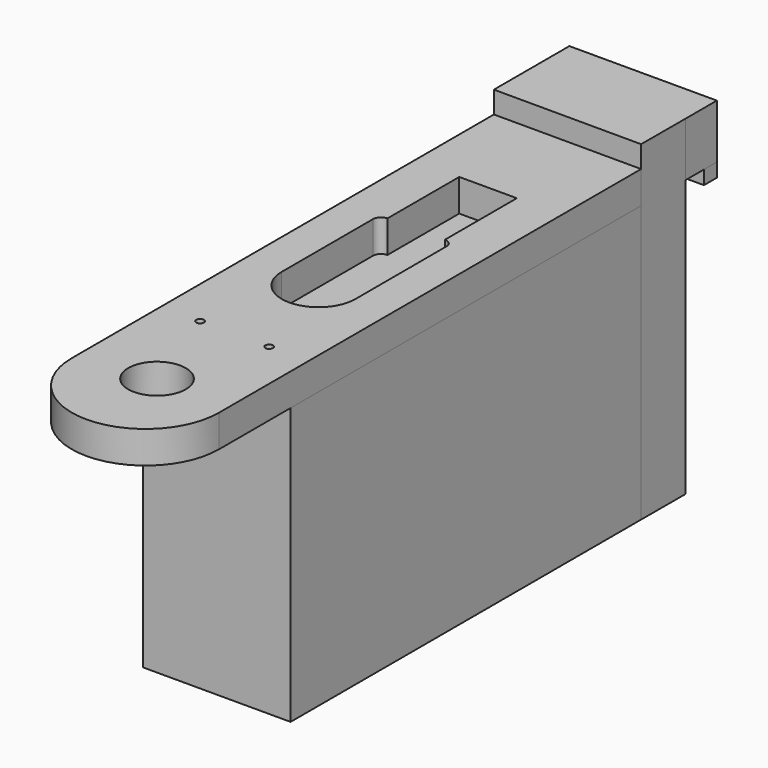
from build123d import *

# Parameters (mm, degrees)
F0_R     = 0.4191
F0_R_2   = 3.175
F1_DEPTH = 3.556
F0_W     = 16.2684546465
F0_H     = 2.54
F0_H_2   = 1.778
F2_DEPTH = 5.969
F3_DEPTH = 1.524
F4_DEPTH = 30.48


with BuildPart() as f1:
    # F0 (on Top) → F1 (new body)
    with BuildSketch(Plane.XY):
        Polygon((-8.1289618026, 19.5699129487), (-8.1289618026, -28.7827895308), (8.1284994147, -28.7827895308), (8.1284994147, 19.5406646823), align=None)
        with Locations((-3.8069129527, -26.3434465483)):
            Circle(F0_R, mode=Mode.SUBTRACT)
        with Locations((3.8130870473, -26.3434465483)):
            Circle(F0_R, mode=Mode.SUBTRACT)
        with BuildLine():
            ThreePointArc((4.0638460346, -14.7540253319), (0.0030865228, -18.8226827446), (-4.0641509764, -14.7605010551))
            Line((-4.0641509764, -14.7605010551), (-4.069773258, -2.185850306))
            ThreePointArc((-4.069773258, -2.185850306), (-3.8099907741, -1.5581196008), (-3.1823557791, -1.2981059663))
            Line((-3.1823557791, -1.2981059663), (-3.1823557791, 8.6078940337))
            Line((-3.1823557791, 8.6078940337), (3.1676447176, 8.6078940337))
            Line((3.1676447176, 8.6078940337), (3.1676447176, -1.2981059659))
            ThreePointArc((3.1676447176, -1.2981059659), (3.7912426345, -1.5606685465), (4.0494391018, -2.1860868505))
            Line((4.0494391018, -2.1860868505), (4.0638460346, -14.7540253319))
        make_face(mode=Mode.SUBTRACT)
        with BuildLine():
            Line((-8.1289618026, -28.7827895308), (-8.1275002277, -38.637912922))
            ThreePointArc((-8.1275002501, -38.637912922), (0.0011022648, -46.764707356), (8.1284994371, -38.6367074901))
            Line((8.1284994147, -38.6367074901), (8.1284994147, -28.7827895308))
            Line((8.1284994147, -28.7827895308), (-8.1289618026, -28.7827895308))
        make_face()
        with Locations((0.0004995041, -37.0354612684)):
            Circle(F0_R_2, mode=Mode.SUBTRACT)
    extrude(amount=F1_DEPTH)

    # F0 (on Top) → F2 (join)
    with BuildSketch(Plane.XY):
        Polygon((-8.1289618026, 25.6512917549), (-8.1289618026, 19.5699129487), (8.1284994147, 19.5406646823), (8.1394928439, 25.6512917549), align=None)
        with Locations((0.0052655206, 26.9212917549)):
            Rectangle(F0_W, F0_H)
        with Locations((0.0052655206, 29.0802917549)):
            Rectangle(F0_W, F0_H_2)
    extrude(amount=F2_DEPTH)

    # F0 (on Top) → F3 (join)
    with BuildSketch(Plane.XY):
        with Locations((0.0052655206, 29.0802917549)):
            Rectangle(F0_W, F0_H_2)
    extrude(amount=-F3_DEPTH)

    # F0 (on Top) → F4 (join)
    with BuildSketch(Plane.XY):
        Polygon((-8.1289618026, 19.5699129487), (-8.1289618026, -28.7827895308), (8.1284994147, -28.7827895308), (8.1284994147, 19.5406646823), align=None)
        with Locations((-3.8069129527, -26.3434465483)):
            Circle(F0_R, mode=Mode.SUBTRACT)
        with Locations((3.8130870473, -26.3434465483)):
            Circle(F0_R, mode=Mode.SUBTRACT)
        with BuildLine():
            ThreePointArc((4.0638460346, -14.7540253319), (0.0030865228, -18.8226827446), (-4.0641509764, -14.7605010551))
            Line((-4.0641509764, -14.7605010551), (-4.069773258, -2.185850306))
            ThreePointArc((-4.069773258, -2.185850306), (-3.8099907741, -1.5581196008), (-3.1823557791, -1.2981059663))
            Line((-3.1823557791, -1.2981059663), (-3.1823557791, 8.6078940337))
            Line((-3.1823557791, 8.6078940337), (3.1676447176, 8.6078940337))
            Line((3.1676447176, 8.6078940337), (3.1676447176, -1.2981059659))
            ThreePointArc((3.1676447176, -1.2981059659), (3.7912426345, -1.5606685465), (4.0494391018, -2.1860868505))
            Line((4.0494391018, -2.1860868505), (4.0638460346, -14.7540253319))
        make_face(mode=Mode.SUBTRACT)
        with BuildLine():
            Line((-4.069773258, -2.185850306), (-4.0641509764, -14.7605010551))
            ThreePointArc((-4.0641509764, -14.7605010551), (0.0030865228, -18.8226827446), (4.0638460346, -14.7540253319))
            Line((4.0638460346, -14.7540253319), (4.0494391018, -2.1860868505))
            ThreePointArc((4.0494391018, -2.1860868505), (3.7912426345, -1.5606685465), (3.1676447176, -1.2981059659))
            Line((3.1676447176, -1.2981059659), (3.1676447176, 8.6078940337))
            Line((3.1676447176, 8.6078940337), (-3.1823557791, 8.6078940337))
            Line((-3.1823557791, 8.6078940337), (-3.1823557791, -1.2981059663))
            ThreePointArc((-3.1823557791, -1.2981059663), (-3.8099907741, -1.5581196008), (-4.069773258, -2.185850306))
        make_face()
        Polygon((-8.1289618026, 25.6512917549), (-8.1289618026, 19.5699129487), (8.1284994147, 19.5406646823), (8.1394928439, 25.6512917549), align=None)
        with Locations((3.8130870473, -26.3434465483)):
            Circle(F0_R)
        with Locations((-3.8069129527, -26.3434465483)):
            Circle(F0_R)
    extrude(amount=-F4_DEPTH)


solid = f1.part
